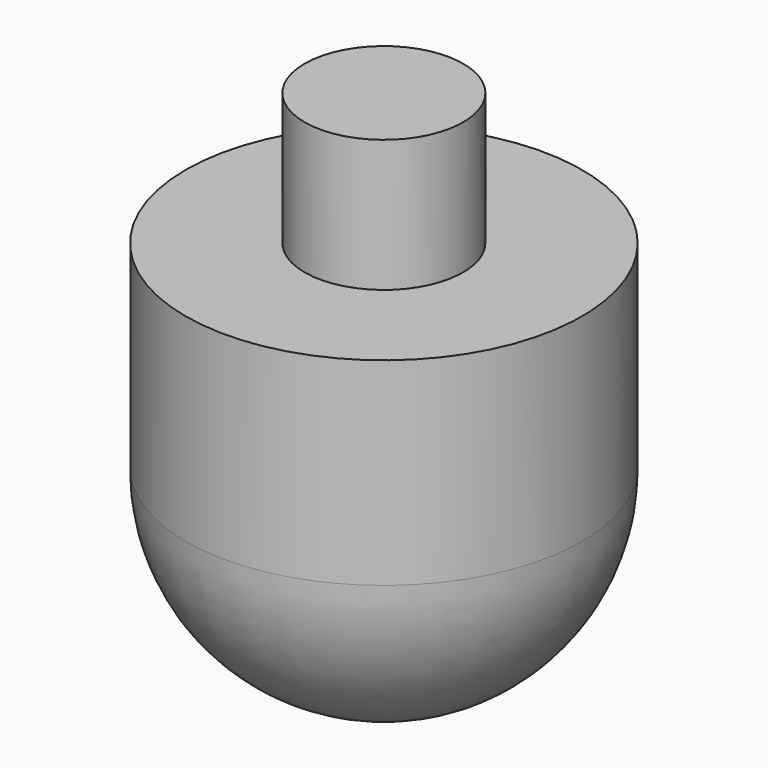
from build123d import *

# Parameters (mm, degrees)
F0_W = 6
F0_H = 10


with BuildPart() as f1:
    # F0 (on Front) → F1 (revolve)
    with BuildSketch(Plane.XZ):
        with Locations((-3, 20)):
            Rectangle(F0_W, F0_H)
        Polygon((0, 15), (-6, 15), (-15, 15), (-15, 0), (0, 0), align=None)
        with BuildLine():
            Line((0, -15), (0, 0))
            Line((0, 0), (-15, 0))
            ThreePointArc((-15, 0), (-10.606602, -10.606602), (0, -15))
        make_face()
    revolve(axis=Axis((0, 0, 5), (0, 0, -1)))


solid = f1.part
